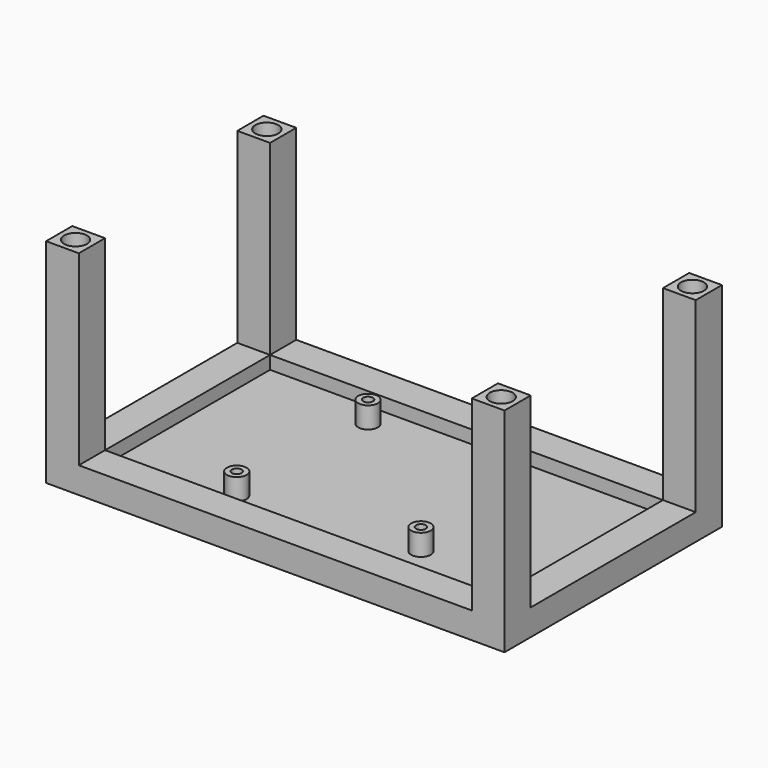
from build123d import *

# Parameters (mm, degrees)
F0_W      = 10
F0_H      = 10
F1_DEPTH  = 65
F4_DEPTH  = 8
F5_W      = 140
F5_H      = 83
F6_DEPTH  = 4
F7_R      = 3
F7_R_2    = 1.5
F8_DEPTH  = 10.5
F9_R      = 3.5
F10_DEPTH = 70


with BuildPart() as f1:
    # F0 (on Top) → F1 (new body)
    with BuildSketch(Plane.XY):
        with Locations((-65, 28)):
            Rectangle(F0_W, F0_H)
        with Locations((65, 28)):
            Rectangle(F0_W, F0_H)
        with Locations((-65, -45)):
            Rectangle(F0_W, F0_H)
        with Locations((65, -45)):
            Rectangle(F0_W, F0_H)
    extrude(amount=-F1_DEPTH)

    # F3 (on offset) → F4 (join)
    with BuildSketch(Plane.XY.offset(-65)):
        Polygon((-70, -40), (-70, -50), (-60, -50), (60, -50), (70, -50), (70, -40), (70, 23), (60, 23), (60, -40), (-60, -40), (-60, 23), (-70, 23), align=None)
        Polygon((-70, 33), (-70, 23), (-60, 23), (60, 23), (70, 23), (70, 33), align=None)
    extrude(amount=F4_DEPTH)

    # F5 (on offset) → F6 (join)
    with BuildSketch(Plane.XY.offset(-65)):
        with Locations((0, -8.5)):
            Rectangle(F5_W, F5_H)
    extrude(amount=F6_DEPTH)

    # F7 (on offset) → F8 (join)
    with BuildSketch(Plane.XY.offset(-65)):
        with Locations((-24.34509, 15.832442)):
            Circle(F7_R)
        with Locations((-24.34509, 15.832442)):
            Circle(F7_R_2, mode=Mode.SUBTRACT)
        with Locations((26.337272, 0.330886)):
            Circle(F7_R)
        with Locations((26.337272, 0.330886)):
            Circle(F7_R_2, mode=Mode.SUBTRACT)
        with Locations((26.613058, -27.667755)):
            Circle(F7_R)
        with Locations((26.613058, -27.667755)):
            Circle(F7_R_2, mode=Mode.SUBTRACT)
        with Locations((-25.65, -32.65)):
            Circle(F7_R)
        with Locations((-25.65, -32.65)):
            Circle(F7_R_2, mode=Mode.SUBTRACT)
    extrude(amount=F8_DEPTH)

    # F9 (on Top) → F10 (cut)
    with BuildSketch(Plane.XY):
        with Locations((-65, 28)):
            Circle(F9_R)
        with Locations((-65, -45)):
            Circle(F9_R)
        with Locations((65, -45)):
            Circle(F9_R)
        with Locations((65, 28)):
            Circle(F9_R)
    extrude(amount=-F10_DEPTH, mode=Mode.SUBTRACT)


solid = f1.part
